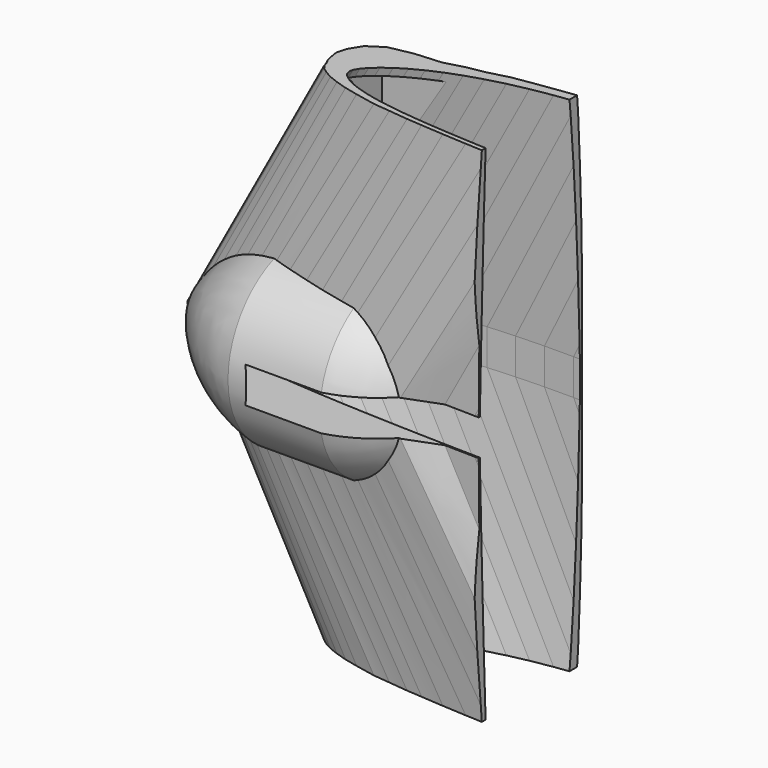
from build123d import *

# Parameters (mm, degrees)
SKETCH006_W      = 40
SKETCH006_H      = 135
PAD001_DEPTH     = 13
PAD_DEPTH        = 5
REVOLUTION_ANGLE = 180
BOX_W            = 300
BOX_H            = 100
BOX_DEPTH        = 140


with BuildPart() as pad001:
    # Sketch006 → Pad001 (new body)
    with BuildSketch(Plane.XZ):
        with Locations((58, 0)):
            Rectangle(SKETCH006_W, SKETCH006_H)
    extrude(amount=-PAD001_DEPTH)


with BuildPart() as fusoliera:
    # Sketch → Pad (new body, symmetric)
    with BuildSketch(Plane.XY):
        with BuildLine():
            Line((290, 0), (289.7129, 0.0174))
            Line((289.7129, 0.0174), (288.8574, 0.0696))
            Line((288.8574, 0.0696), (287.4306, 0.1769))
            Line((287.4306, 0.1769), (285.4441, 0.3509))
            Line((285.4441, 0.3509), (282.9037, 0.6003))
            Line((282.9037, 0.6003), (279.8181, 0.9251))
            Line((279.8181, 0.9251), (276.1989, 1.3224))
            Line((276.1989, 1.3224), (272.0635, 1.7893))
            Line((272.0635, 1.7893), (267.4264, 2.3229))
            Line((267.4264, 2.3229), (262.3079, 2.9261))
            Line((262.3079, 2.9261), (256.7254, 3.6076))
            Line((256.7254, 3.6076), (250.6992, 4.3587))
            Line((250.6992, 4.3587), (244.2583, 5.1852))
            Line((244.2583, 5.1852), (237.4259, 6.0784))
            Line((237.4259, 6.0784), (230.2281, 7.0383))
            Line((230.2281, 7.0383), (230.2281, 40.028069))
            Line((230.2281, 40.028069), (201.90651, 39.515951))
            ThreePointArc((172.217343, 14.637652), (187.660006, 26.363067), (201.90651, 39.515951))
            Line((172.217343, 14.637652), (163.1743, 16.2081))
            Line((163.1743, 16.2081), (154.106, 17.371))
            Line((154.106, 17.371), (145, 18.4817))
            Line((145, 18.4817), (135.8969, 19.5199))
            Line((135.8969, 19.5199), (126.8257, 20.4682))
            Line((126.8257, 20.4682), (117.8299, 21.3034))
            Line((117.8299, 21.3034), (108.9414, 22.0023))
            Line((108.9414, 22.0023), (100.1921, 22.5446))
            Line((100.1921, 22.5446), (91.6226, 22.9129))
            Line((91.6226, 22.9129), (83.2619, 23.0898))
            Line((83.2619, 23.0898), (75.1448, 23.0608))
            Line((75.1448, 23.0608), (67.3061, 22.8201))
            Line((67.3061, 22.8201), (59.7719, 22.3561))
            Line((59.7719, 22.3561), (52.5741, 21.6717))
            Line((52.5741, 21.6717), (45.7417, 20.7698))
            Line((45.7417, 20.7698), (39.3008, 19.662))
            Line((39.3008, 19.662), (33.2746, 18.3628))
            Line((33.2746, 18.3628), (27.6921, 16.8896))
            Line((27.6921, 16.8896), (22.5736, 15.2714))
            Line((22.5736, 15.2714), (17.9365, 13.5314))
            Line((17.9365, 13.5314), (13.8011, 11.7015))
            Line((13.8011, 11.7015), (10.1819, 9.8165))
            Line((10.1819, 9.8165), (7.0963, 7.9112))
            Line((7.0963, 7.9112), (4.5559, 6.0378))
            Line((4.5559, 6.0378), (2.5694, 4.263))
            Line((2.5694, 4.263), (1.1426, 2.6535))
            Line((1.1426, 2.6535), (0.2871, 1.2383))
            Line((0.2871, 1.2383), (0, 0))
            Line((0, 0), (0.2871, -1.131))
            Line((0.2871, -1.131), (1.1426, -2.2243))
            Line((1.1426, -2.2243), (2.5694, -3.3176))
            Line((2.5694, -3.3176), (4.5559, -4.3964))
            Line((4.5559, -4.3964), (7.0963, -5.4201))
            Line((38.675534, -31.593528), (7.0963, -5.4201))
            Line((38.675534, -31.593528), (232.520951, -31.593528))
            Line((232.520951, -31.593528), (244.2583, -4.8227))
            Line((244.2583, -4.8227), (250.6992, -4.1267))
            Line((250.6992, -4.1267), (256.7254, -3.4626))
            Line((256.7254, -3.4626), (262.3079, -2.842))
            Line((262.3079, -2.842), (267.4264, -2.2765))
            Line((267.4264, -2.2765), (272.0635, -1.7661))
            Line((272.0635, -1.7661), (276.1989, -1.3137))
            Line((276.1989, -1.3137), (279.8181, -0.9222))
            Line((279.8181, -0.9222), (282.9037, -0.5974))
            Line((282.9037, -0.5974), (285.4441, -0.3509))
            Line((285.4441, -0.3509), (287.4306, -0.1769))
            Line((287.4306, -0.1769), (288.8574, -0.0696))
            Line((288.8574, -0.0696), (289.7129, -0.0174))
            Line((289.7129, -0.0174), (290, 0))
        make_face()
    extrude(amount=PAD_DEPTH, both=True)


with BuildPart() as loft_body:
    # Sketch001 → Loft section 0
    with BuildSketch(Plane.XY):
        Polygon((290, 0), (289.7129, 0.0174), (288.8574, 0.0696), (287.4306, 0.1769), (285.4441, 0.3509), (282.9037, 0.6003), (279.8181, 0.9251), (276.1989, 1.3224), (272.0635, 1.7893), (267.4264, 2.3229), (262.3079, 2.9261), (256.7254, 3.6076), (250.6992, 4.3587), (244.2583, 5.1852), (237.4259, 6.0784), (230.2281, 7.0383), (222.6939, 8.0591), (214.8552, 9.135), (206.7381, 10.2573), (198.3774, 11.4173), (189.8079, 12.6034), (181.0615, 13.8098), (172.1701, 15.0162), (163.1743, 16.2081), (154.106, 17.371), (145, 18.4817), (135.8969, 19.5199), (126.8257, 20.4682), (117.8299, 21.3034), (108.9414, 22.0023), (100.1921, 22.5446), (91.6226, 22.9129), (83.2619, 23.0898), (75.1448, 23.0608), (67.3061, 22.8201), (59.7719, 22.3561), (52.5741, 21.6717), (45.7417, 20.7698), (39.3008, 19.662), (33.2746, 18.3628), (27.6921, 16.8896), (22.5736, 15.2714), (17.9365, 13.5314), (13.8011, 11.7015), (10.1819, 9.8165), (7.0963, 7.9112), (4.5559, 6.0378), (2.5694, 4.263), (1.1426, 2.6535), (0.2871, 1.2383), (0, 0), (0.2871, -1.131), (1.1426, -2.2243), (2.5694, -3.3176), (4.5559, -4.3964), (7.0963, -5.4201), (10.1819, -6.3568), (13.8011, -7.1949), (17.9365, -7.9344), (22.5736, -8.5811), (27.6921, -9.1437), (33.2746, -9.6367), (39.3008, -10.063), (45.7417, -10.4371), (52.5741, -10.7619), (59.7719, -11.0461), (67.3061, -11.2926), (75.1448, -11.5043), (83.2619, -11.6812), (91.6226, -11.8175), (100.1921, -11.9161), (108.9414, -11.9683), (117.8299, -11.9712), (126.8257, -11.9161), (135.8969, -11.8001), (145, -11.6174), (154.106, -11.3651), (163.1743, -11.0374), (172.1701, -10.6401), (181.0615, -10.1732), (189.8079, -9.6396), (198.3774, -9.0451), (206.7381, -8.4013), (214.8552, -7.7169), (222.6939, -7.0064), (230.2281, -6.2756), (237.4259, -5.5448), (244.2583, -4.8227), (250.6992, -4.1267), (256.7254, -3.4626), (262.3079, -2.842), (267.4264, -2.2765), (272.0635, -1.7661), (276.1989, -1.3137), (279.8181, -0.9222), (282.9037, -0.5974), (285.4441, -0.3509), (287.4306, -0.1769), (288.8574, -0.0696), (289.7129, -0.0174), align=None)
    # Sketch002 → Loft section 1
    with BuildSketch(Plane(origin=(260, 0, 430), x_dir=(1, 0, 0), z_dir=(0, 0, 1))):
        Polygon((120, 0), (119.8812, 0.0072), (119.5272, 0.0288), (118.9368, 0.0732), (118.1148, 0.1452), (117.0636, 0.2484), (115.7868, 0.3828), (114.2892, 0.5472), (112.578, 0.7404), (110.6592, 0.9612), (108.5412, 1.2108), (106.2312, 1.4928), (103.7376, 1.8036), (101.0724, 2.1456), (98.2452, 2.5152), (95.2668, 2.9124), (92.1492, 3.3348), (88.9056, 3.78), (85.5468, 4.2444), (82.0872, 4.7244), (78.5412, 5.2152), (74.922, 5.7144), (71.2428, 6.2136), (67.5204, 6.7068), (63.768, 7.188), (60, 7.6476), (56.2332, 8.0772), (52.4796, 8.4696), (48.7572, 8.8152), (45.0792, 9.1044), (41.4588, 9.3288), (37.9128, 9.4812), (34.4532, 9.5544), (31.0944, 9.5424), (27.8508, 9.4428), (24.7332, 9.2508), (21.7548, 8.9676), (18.9276, 8.5944), (16.2624, 8.136), (13.7688, 7.5984), (11.4588, 6.9888), (9.3408, 6.3192), (7.422, 5.5992), (5.7108, 4.842), (4.2132, 4.062), (2.9364, 3.2736), (1.8852, 2.4984), (1.0632, 1.764), (0.4728, 1.098), (0.1188, 0.5124), (0, 0), (0.1188, -0.468), (0.4728, -0.9204), (1.0632, -1.3728), (1.8852, -1.8192), (2.9364, -2.2428), (4.2132, -2.6304), (5.7108, -2.9772), (7.422, -3.2832), (9.3408, -3.5508), (11.4588, -3.7836), (13.7688, -3.9876), (16.2624, -4.164), (18.9276, -4.3188), (21.7548, -4.4532), (24.7332, -4.5708), (27.8508, -4.6728), (31.0944, -4.7604), (34.4532, -4.8336), (37.9128, -4.89), (41.4588, -4.9308), (45.0792, -4.9524), (48.7572, -4.9536), (52.4796, -4.9308), (56.2332, -4.8828), (60, -4.8072), (63.768, -4.7028), (67.5204, -4.5672), (71.2428, -4.4028), (74.922, -4.2096), (78.5412, -3.9888), (82.0872, -3.7428), (85.5468, -3.4764), (88.9056, -3.1932), (92.1492, -2.8992), (95.2668, -2.5968), (98.2452, -2.2944), (101.0724, -1.9956), (103.7376, -1.7076), (106.2312, -1.4328), (108.5412, -1.176), (110.6592, -0.942), (112.578, -0.7308), (114.2892, -0.5436), (115.7868, -0.3816), (117.0636, -0.2472), (118.1148, -0.1452), (118.9368, -0.0732), (119.5272, -0.0288), (119.8812, -0.0072), align=None)
    loft()


with BuildPart() as loft_body_1:
    # Loft placement: moved
    add(loft_body.part.moved(Location((0, 0, 5))))


with BuildPart() as obj1:
    # Part__Mirroring: instance of Loft body
    add(loft_body_1.part.mirror(Plane(origin=(170, 5.5593, 0), x_dir=(0, 1, 0), z_dir=(0, 0, 1))))

    # Fusion001: union Loft body
    add(loft_body_1.part)

    # Fusion002: union fusoliera
    add(fusoliera.part)

    # Fusion004: union Pad001
    add(pad001.part)


with BuildPart() as obj2:
    # Sketch005 → Revolution (revolve)
    with BuildSketch(Plane.XZ):
        with BuildLine():
            ThreePointArc((25.407095, 24.798698), (7.644088, 15.826593), (-4.419994, 0))
            Line((-4.419994, 0), (73.884384, 0))
            ThreePointArc((73.884384, 0), (66.028237, 15.73582), (50.955104, 24.798698))
            Line((25.407095, 24.798698), (50.955104, 24.798698))
        make_face()
    revolve(axis=Axis((0, 0, 0), (1, 0, 0)), revolution_arc=REVOLUTION_ANGLE)


with BuildPart() as cubo:
    # Box → Box (new body)
    with BuildSketch(Plane(origin=(85, -50, -70), x_dir=(1, 0, 0), z_dir=(0, 0, 1))):
        with Locations((150, 50)):
            Rectangle(BOX_W, BOX_H)
    extrude(amount=BOX_DEPTH)


with BuildPart() as loft001:
    # Sketch003 → Loft001 section 0
    with BuildSketch(Plane(origin=(-5, 0, 0), x_dir=(1, 0, 0), z_dir=(0, 0, 1))):
        Polygon((300, 0), (299.703, 0.018), (298.818, 0.072), (297.342, 0.183), (295.287, 0.363), (292.659, 0.621), (289.467, 0.957), (285.723, 1.368), (281.445, 1.851), (276.648, 2.403), (271.353, 3.027), (265.578, 3.732), (259.344, 4.509), (252.681, 5.364), (245.613, 6.288), (238.167, 7.281), (230.373, 8.337), (222.264, 9.45), (213.867, 10.611), (205.218, 11.811), (196.353, 13.038), (187.305, 14.286), (178.107, 15.534), (168.801, 16.767), (159.42, 17.97), (150, 19.119), (140.583, 20.193), (131.199, 21.174), (121.893, 22.038), (112.698, 22.761), (103.647, 23.322), (94.782, 23.703), (86.133, 23.886), (77.736, 23.856), (69.627, 23.607), (61.833, 23.127), (54.945744, 23.051064), (47.122498, 22.28804), (40.386608, 21.29422), (33.761143, 19.637854), (28.019072, 17.871065), (23.218418, 16.053862), (18.61986, 14.152198), (14.277, 12.105), (10.533, 10.155), (7.341, 8.184), (4.713, 6.246), (2.658, 4.41), (1.182, 2.745), (0.297, 1.281), (0, 0), (0.297, -1.17), (1.182, -2.301), (2.658, -3.432), (4.713, -4.548), (7.341, -5.607), (10.368199, -6.953395), (14.311341, -8.103964), (18.149906, -9.159569), (22.843533, -10.31214), (28.600012, -11.483979), (34.357857, -12.539584), (40.595524, -13.499225), (45.681622, -14.266937), (53.742603, -15.322543), (60.843948, -15.994291), (68.137215, -15.802364), (77.736, -11.901), (86.133, -12.084), (94.782, -12.225), (103.647, -12.327), (112.698, -12.381), (121.893, -12.384), (131.199, -12.327), (140.583, -12.207), (150, -12.018), (159.42, -11.757), (168.801, -11.418), (178.107, -11.007), (187.305, -10.524), (196.353, -9.972), (205.218, -9.357), (213.867, -8.691), (222.264, -7.983), (230.373, -7.248), (238.167, -6.492), (245.613, -5.736), (252.681, -4.989), (259.344, -4.269), (265.578, -3.582), (271.353, -2.94), (276.648, -2.355), (281.445, -1.827), (285.723, -1.359), (289.467, -0.954), (292.659, -0.618), (295.287, -0.363), (297.342, -0.183), (298.818, -0.072), (299.703, -0.018), align=None)
    # Sketch004 → Loft001 section 1
    with BuildSketch(Plane(origin=(33, 0, 70), x_dir=(1, 0, 0), z_dir=(0, 0, 1))):
        Polygon((300, 0), (299.703, 0.018), (298.818, 0.072), (297.342, 0.183), (295.287, 0.363), (292.659, 0.621), (289.467, 0.957), (285.723, 1.368), (281.445, 1.851), (276.648, 2.403), (271.353, 3.027), (265.578, 3.732), (259.344, 4.509), (252.681, 5.364), (245.613, 6.288), (238.167, 7.281), (230.373, 8.337), (222.264, 9.45), (213.867, 10.611), (205.218, 11.811), (196.353, 13.038), (187.305, 14.286), (178.107, 15.534), (168.801, 16.767), (159.42, 17.97), (150, 19.119), (140.583, 20.193), (131.199, 21.174), (121.893, 22.038), (112.698, 22.761), (103.647, 23.322), (94.782, 23.703), (86.133, 23.886), (77.736, 23.856), (69.627, 23.607), (61.833, 23.127), (54.387, 22.419), (47.319, 21.486), (42.042729, 20.732476), (35.582152, 19.722852), (30.045488, 18.278031), (24.43066, 17.208294), (19.383362, 15.831762), (12.165092, 15.299994), (5.56757, 13.994234), (1.375393, 11.245266), (-0.703021, 7.845343), (-1.439052, 5.094563), (-0.92252, 2.222917), (-0.584923, 1.097586), (0, 0), (0.297, -1.17), (1.182, -2.301), (2.658, -3.432), (4.713, -4.548), (7.341, -5.607), (10.533, -6.576), (14.277, -7.443), (20.041225, -8.60954), (24.743465, -9.089361), (30.117455, -9.665145), (34.422, -9.969), (40.656, -10.41), (47.319, -10.797), (54.387, -11.133), (61.833, -11.427), (69.627, -11.682), (77.736, -11.901), (86.133, -12.084), (94.782, -12.225), (103.647, -12.327), (112.698, -12.381), (121.893, -12.384), (131.199, -12.327), (140.583, -12.207), (150, -12.018), (159.42, -11.757), (168.801, -11.418), (178.107, -11.007), (187.305, -10.524), (196.353, -9.972), (205.218, -9.357), (213.867, -8.691), (222.264, -7.983), (230.373, -7.248), (238.167, -6.492), (245.613, -5.736), (252.681, -4.989), (259.344, -4.269), (265.578, -3.582), (271.353, -2.94), (276.648, -2.355), (281.445, -1.827), (285.723, -1.359), (289.467, -0.954), (292.659, -0.618), (295.287, -0.363), (297.342, -0.183), (298.818, -0.072), (299.703, -0.018), align=None)
    loft()


with BuildPart() as cut001:
    # Part__Mirroring001: instance of Loft001
    add(loft001.part.mirror(Plane(origin=(160, 5.751, 0), x_dir=(0, 1, 0), z_dir=(0, 0, 1))))

    # Fusion: union Loft001
    add(loft001.part)

    # Cut: cut Cubo
    add(cubo.part, mode=Mode.SUBTRACT)

    # Fusion003: union obj2
    add(obj2.part)

    # Cut001: cut obj1
    add(obj1.part, mode=Mode.SUBTRACT)


solid = cut001.part
